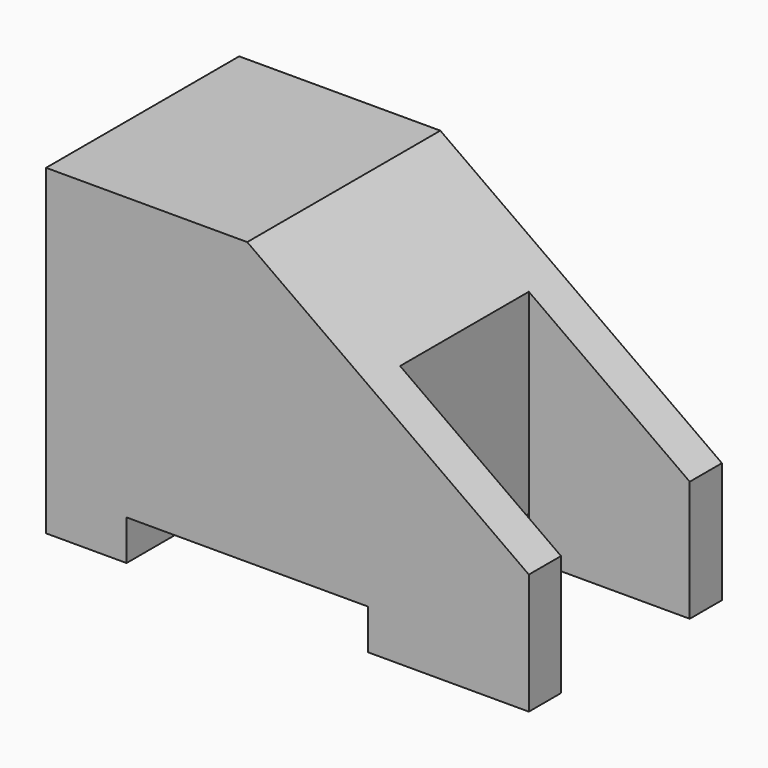
from build123d import *

# Parameters (mm, degrees)
F0_W     = 30
F0_H     = 20
F1_DEPTH = 15
F2_W     = 15
F2_H     = 2.5
F3_DEPTH = 15.001
F4_W     = 10
F4_H     = 20
F5_DEPTH = 10


with BuildPart() as f1:
    # F0 (on Front) → F1 (new body)
    with BuildSketch(Plane.XZ):
        with Locations((15, 10)):
            Rectangle(F0_W, F0_H)
    extrude(amount=F1_DEPTH)

    # F2 (on face) → F3 (cut, through all)
    with BuildSketch(Plane.XZ.offset(15)):
        with Locations((12.5, 1.25)):
            Rectangle(F2_W, F2_H)
        Polygon((30, 20), (12.5, 20), (30, 7.5), align=None)
    extrude(amount=-F3_DEPTH, mode=Mode.SUBTRACT)

    # F4 (on face) → F5 (cut)
    with BuildSketch(Plane.YZ.offset(30)):
        with Locations((-7.5, 10)):
            Rectangle(F4_W, F4_H)
    extrude(amount=-F5_DEPTH, mode=Mode.SUBTRACT)


solid = f1.part
